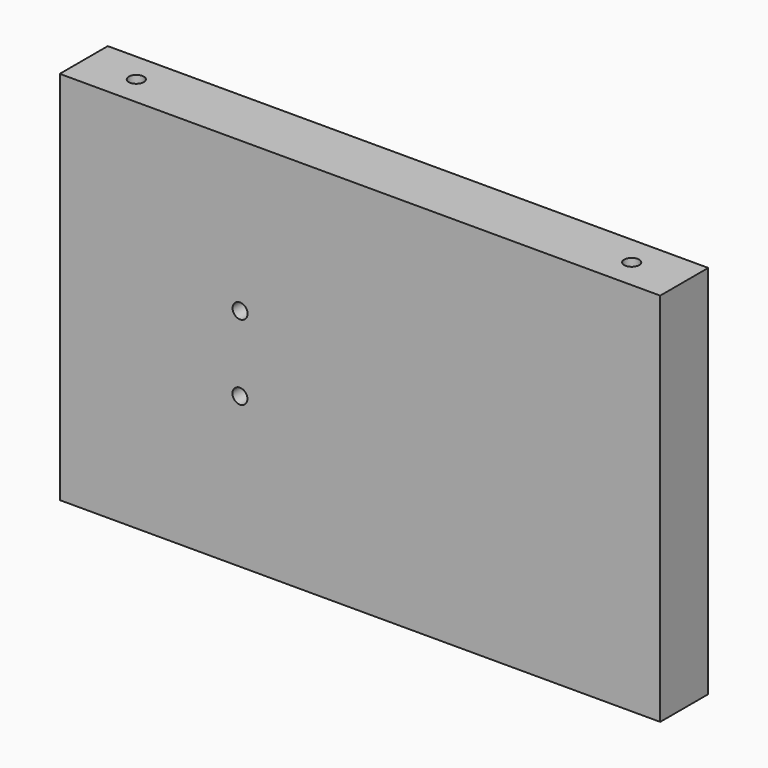
from build123d import *

# Parameters (mm, degrees)
F0_W      = 40
F0_H      = 250
F1_DEPTH  = 200
F4_R      = 5
F5_DEPTH  = 20
F3_R      = 5
F6_DEPTH  = 20
F7_R      = 5
F8_DEPTH  = 20
F9_R      = 5
F10_DEPTH = 20
F11_R     = 5
F12_DEPTH = 20
F13_R     = 5
F14_DEPTH = 20


with BuildPart() as f1:
    # F0 (on Right) → F1 (new body, symmetric)
    with BuildSketch(Plane.YZ):
        with Locations((20, 125)):
            Rectangle(F0_W, F0_H)
    extrude(amount=F1_DEPTH, both=True)

    # F4 (on face) → F5 (cut)
    with BuildSketch(Plane.XZ):
        with Locations((-79.978161, 100)):
            Circle(F4_R)
    extrude(amount=-F5_DEPTH, mode=Mode.SUBTRACT)

    # F3 (on face) → F6 (cut)
    with BuildSketch(Plane.XZ):
        with Locations((-79.879753, 150)):
            Circle(F3_R)
    extrude(amount=-F6_DEPTH, mode=Mode.SUBTRACT)

    # F7 (on face) → F8 (cut)
    with BuildSketch(Plane.XY.offset(250)):
        with Locations((-165, 20)):
            Circle(F7_R)
    extrude(amount=-F8_DEPTH, mode=Mode.SUBTRACT)

    # F9 (on face) → F10 (cut)
    with BuildSketch(Plane.XY.offset(250)):
        with Locations((165, 20)):
            Circle(F9_R)
    extrude(amount=-F10_DEPTH, mode=Mode.SUBTRACT)

    # F11 (on face) → F12 (cut)
    with BuildSketch(Plane(origin=(0, 0, 0), x_dir=(1, 0, 0), z_dir=(0, 0, -1))):
        with Locations((-165, -20)):
            Circle(F11_R)
    extrude(amount=-F12_DEPTH, mode=Mode.SUBTRACT)

    # F13 (on face) → F14 (cut)
    with BuildSketch(Plane(origin=(0, 0, 0), x_dir=(1, 0, 0), z_dir=(0, 0, -1))):
        with Locations((165, -20)):
            Circle(F13_R)
    extrude(amount=-F14_DEPTH, mode=Mode.SUBTRACT)


solid = f1.part
